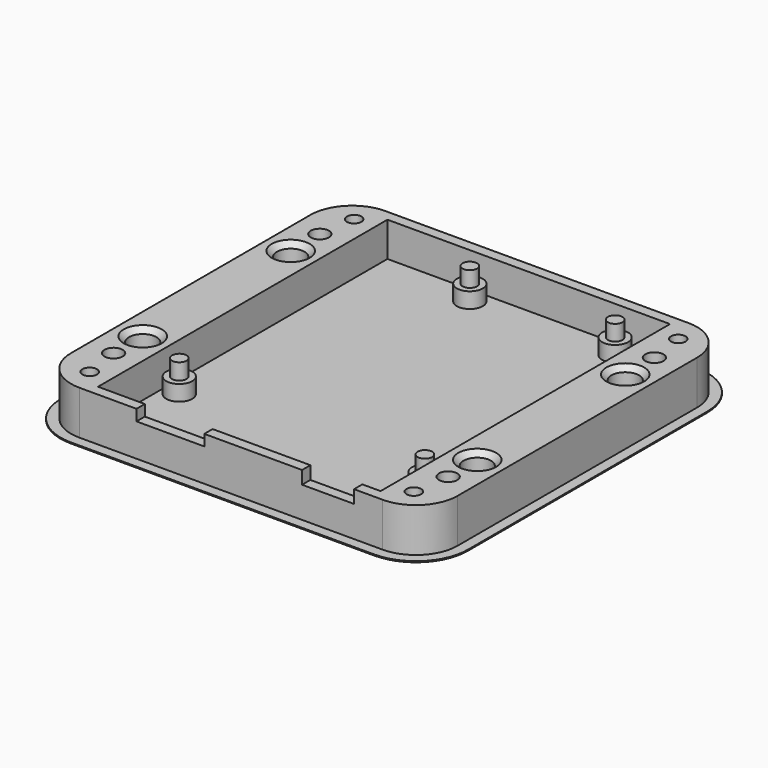
from build123d import *

# Parameters (mm, degrees)
F1_DEPTH  = 2
F2_R      = 2.5
F3_DEPTH  = 3
F4_R      = 1.4
F5_DEPTH  = 3
F6_R      = 1.4
F7_DEPTH  = 3
F8_R      = 1.4
F9_DEPTH  = 3.1
F10_R     = 1.4
F11_DEPTH = 3
F12_R     = 2.65
F12_W     = 54.34
F12_H     = 69.58
F13_DEPTH = 6.65
F14_R     = 1.75
F14_R_2   = 1.4
F15_DEPTH = 25
F16_W     = 13.04
F16_H     = 2.13
F16_W_2   = 10
F16_H_2   = 2.5
F17_DEPTH = 3
F18_SIZE  = 1
F20_DEPTH = 0.2


with BuildPart() as f1:
    # F0 (on Top) → F1 (new body)
    with BuildSketch(Plane.XY):
        with BuildLine():
            Line((55.84, 71.08), (-2.5, 71.08))
            ThreePointArc((-2.5, 71.08), (-8.156854, 68.736854), (-10.5, 63.08))
            Line((-10.5, 63.08), (-10.5, 5.5))
            ThreePointArc((-10.5, 5.5), (-8.156854, -0.156854), (-2.5, -2.5))
            Line((-2.5, -2.5), (55.84, -2.5))
            ThreePointArc((55.84, -2.5), (61.496854, -0.156854), (63.84, 5.5))
            Line((63.84, 5.5), (63.84, 63.08))
            ThreePointArc((63.84, 63.08), (61.496854, 68.736854), (55.84, 71.08))
        make_face()
    extrude(amount=F1_DEPTH)

    # F2 (on face) → F3 (join)
    with BuildSketch(Plane.XY.offset(2)):
        with Locations((17.78, 66.04)):
            Circle(F2_R)
        with Locations((45.72, 66.04)):
            Circle(F2_R)
        with Locations((2.54, 15.24)):
            Circle(F2_R)
        with Locations((50.8, 13.97)):
            Circle(F2_R)
    extrude(amount=F3_DEPTH)

    # F4 (on face) → F5 (join)
    with BuildSketch(Plane.XY.offset(5)):
        with Locations((17.78, 66.04)):
            Circle(F4_R)
    extrude(amount=F5_DEPTH)

    # F6 (on face) → F7 (join)
    with BuildSketch(Plane.XY.offset(5)):
        with Locations((45.72, 66.04)):
            Circle(F6_R)
    extrude(amount=F7_DEPTH)

    # F8 (on face) → F9 (join)
    with BuildSketch(Plane.XY.offset(5)):
        with Locations((2.54, 15.24)):
            Circle(F8_R)
    extrude(amount=F9_DEPTH)

    # F10 (on face) → F11 (join)
    with BuildSketch(Plane.XY.offset(5)):
        with Locations((50.8, 13.97)):
            Circle(F10_R)
    extrude(amount=F11_DEPTH)

    # F12 (on face) → F13 (join)
    with BuildSketch(Plane.XY.offset(2)):
        with BuildLine():
            ThreePointArc((-2.5, 71.08), (-8.156854, 68.736854), (-10.5, 63.08))
            Line((-10.5, 63.08), (-10.5, 5.5))
            ThreePointArc((-10.5, 5.5), (-8.156854, -0.156854), (-2.5, -2.5))
            Line((-2.5, -2.5), (55.84, -2.5))
            ThreePointArc((55.84, -2.5), (61.496854, -0.156854), (63.84, 5.5))
            Line((63.84, 5.5), (63.84, 63.08))
            ThreePointArc((63.84, 63.08), (61.496854, 68.736854), (55.84, 71.08))
            Line((55.84, 71.08), (-2.5, 71.08))
        make_face()
        with Locations((-5.5, 16.5)):
            Circle(F12_R, mode=Mode.SUBTRACT)
        with Locations((58.84, 16.5)):
            Circle(F12_R, mode=Mode.SUBTRACT)
        with Locations((-5.5, 52.08)):
            Circle(F12_R, mode=Mode.SUBTRACT)
        with Locations((26.67, 34.29)):
            Rectangle(F12_W, F12_H, mode=Mode.SUBTRACT)
        with Locations((58.84, 52.08)):
            Circle(F12_R, mode=Mode.SUBTRACT)
    extrude(amount=F13_DEPTH)

    # F14 (on face) → F15 (cut)
    with BuildSketch(Plane.XY.offset(8.65)):
        with Locations((-5.5, 9.5)):
            Circle(F14_R)
        with Locations((-4.5, 2.5)):
            Circle(F14_R_2)
        with Locations((-4.5, 66.08)):
            Circle(F14_R_2)
        with Locations((-5.5, 59.08)):
            Circle(F14_R)
        with Locations((57.84, 66.08)):
            Circle(F14_R_2)
        with Locations((58.84, 59.08)):
            Circle(F14_R)
        with Locations((58.84, 9.5)):
            Circle(F14_R)
        with Locations((57.84, 2.5)):
            Circle(F14_R_2)
    extrude(amount=-F15_DEPTH, mode=Mode.SUBTRACT)

    # F16 (on face) → F17 (cut)
    with BuildSketch(Plane.XZ.offset(2.5)):
        with Locations((15.02, 7.585)):
            Rectangle(F16_W, F16_H)
        with Locations((45.34, 7.4)):
            Rectangle(F16_W_2, F16_H_2)
    extrude(amount=-F17_DEPTH, mode=Mode.SUBTRACT)

    # F18
    f18_edges = [f1.edges().sort_by_distance(p)[0] for p in [
        (56.19, 16.5, 8.65),
        (56.19, 52.08, 8.65),
        (-8.15, 52.08, 8.65),
        (-8.15, 16.5, 8.65),
    ]]
    chamfer(f18_edges, length=F18_SIZE)

    # F19 (on face) → F20 (join)
    with BuildSketch(Plane(origin=(0, 0, 0), x_dir=(1, 0, 0), z_dir=(0, 0, -1))):
        with BuildLine():
            ThreePointArc((-2.5, 4.5), (-9.571068, 1.571068), (-12.5, -5.5))
            Line((-12.5, -5.5), (-12.5, -63.08))
            ThreePointArc((-12.5, -63.08), (-9.571068, -70.151068), (-2.5, -73.08))
            Line((-2.5, -73.08), (55.84, -73.08))
            ThreePointArc((55.84, -73.08), (62.911068, -70.151068), (65.84, -63.08))
            Line((65.84, -63.08), (65.84, -5.5))
            ThreePointArc((65.84, -5.5), (62.911068, 1.571068), (55.84, 4.5))
            Line((55.84, 4.5), (-2.5, 4.5))
        make_face()
        with BuildLine():
            Line((-10.5, -63.08), (-10.5, -5.5))
            ThreePointArc((-10.5, -5.5), (-8.156854, 0.156854), (-2.5, 2.5))
            Line((-2.5, 2.5), (55.84, 2.5))
            ThreePointArc((55.84, 2.5), (61.496854, 0.156854), (63.84, -5.5))
            Line((63.84, -5.5), (63.84, -63.08))
            ThreePointArc((63.84, -63.08), (61.496854, -68.736854), (55.84, -71.08))
            Line((55.84, -71.08), (-2.5, -71.08))
            ThreePointArc((-2.5, -71.08), (-8.156854, -68.736854), (-10.5, -63.08))
        make_face(mode=Mode.SUBTRACT)
    extrude(amount=-F20_DEPTH)


solid = f1.part
